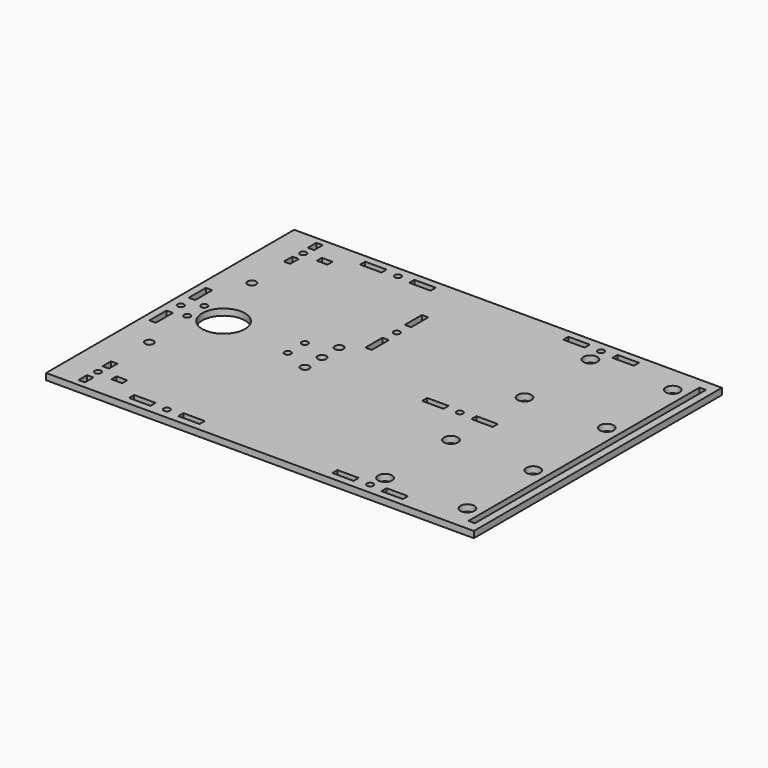
from build123d import *

# Parameters (mm, degrees)
F0_W     = 200
F0_H     = 145
F0_W_2   = 3
F0_H_2   = 5
F0_R     = 1.5
F0_W_3   = 5
F0_H_3   = 3
F0_W_4   = 10
F0_R_2   = 2
F0_H_4   = 10
F0_R_3   = 3.25
F0_R_4   = 10
F0_H_5   = 135
F1_DEPTH = 3


with BuildPart() as f1:
    # F0 (on Top) → F1 (new body)
    with BuildSketch(Plane.XY):
        with Locations((6.405575, -4.149114)):
            Rectangle(F0_W, F0_H)
        with Locations((-79.344425, -71.149114)):
            Rectangle(F0_W_2, F0_H_2, mode=Mode.SUBTRACT)
        with Locations((-79.344425, -64.149114)):
            Circle(F0_R, mode=Mode.SUBTRACT)
        with Locations((-69.344425, -64.149114)):
            Rectangle(F0_W_3, F0_H_3, mode=Mode.SUBTRACT)
        with Locations((-52.594425, -71.649114)):
            Rectangle(F0_W_4, F0_H_3, mode=Mode.SUBTRACT)
        with Locations((-79.344425, -57.149114)):
            Rectangle(F0_W_2, F0_H_2, mode=Mode.SUBTRACT)
        with Locations((-41.094425, -71.649114)):
            Circle(F0_R, mode=Mode.SUBTRACT)
        with Locations((-29.594425, -71.649114)):
            Rectangle(F0_W_4, F0_H_3, mode=Mode.SUBTRACT)
        with Locations((-79.344425, -34.149114)):
            Circle(F0_R_2, mode=Mode.SUBTRACT)
        with Locations((-88.596009, -15.649114)):
            Rectangle(F0_W_2, F0_H_4, mode=Mode.SUBTRACT)
        with Locations((-81.594425, -9.149114)):
            Circle(F0_R, mode=Mode.SUBTRACT)
        with Locations((-22.594425, -14.149114)):
            Circle(F0_R_2, mode=Mode.SUBTRACT)
        with Locations((-34.594425, -9.149114)):
            Circle(F0_R, mode=Mode.SUBTRACT)
        with Locations((42.405575, -71.649114)):
            Rectangle(F0_W_4, F0_H_3, mode=Mode.SUBTRACT)
        with Locations((53.905575, -71.649114)):
            Circle(F0_R, mode=Mode.SUBTRACT)
        with Locations((54.905575, -64.149114)):
            Circle(F0_R_3, mode=Mode.SUBTRACT)
        with Locations((65.405575, -71.649114)):
            Rectangle(F0_W_4, F0_H_3, mode=Mode.SUBTRACT)
        with Locations((93.405575, -64.149114)):
            Circle(F0_R_3, mode=Mode.SUBTRACT)
        with Locations((54.905575, -25.649114)):
            Circle(F0_R_3, mode=Mode.SUBTRACT)
        with Locations((32.405575, -6.649114)):
            Rectangle(F0_W_4, F0_H_3, mode=Mode.SUBTRACT)
        with Locations((43.905575, -6.649114)):
            Circle(F0_R, mode=Mode.SUBTRACT)
        with Locations((55.405575, -6.649114)):
            Rectangle(F0_W_4, F0_H_3, mode=Mode.SUBTRACT)
        with Locations((93.405575, -25.649114)):
            Circle(F0_R_3, mode=Mode.SUBTRACT)
        with Locations((-88.594425, -4.149114)):
            Circle(F0_R, mode=Mode.SUBTRACT)
        with Locations((-81.594425, 0.850886)):
            Circle(F0_R, mode=Mode.SUBTRACT)
        with Locations((-68.594425, -4.149114)):
            Circle(F0_R_4, mode=Mode.SUBTRACT)
        with Locations((-88.596009, 7.350886)):
            Rectangle(F0_W_2, F0_H_4, mode=Mode.SUBTRACT)
        with Locations((-79.344425, 25.850886)):
            Circle(F0_R_2, mode=Mode.SUBTRACT)
        with Locations((-34.594425, 0.850886)):
            Circle(F0_R, mode=Mode.SUBTRACT)
        with Locations((-22.594425, -4.149114)):
            Circle(F0_R_2, mode=Mode.SUBTRACT)
        with Locations((-22.594425, 5.850886)):
            Circle(F0_R_2, mode=Mode.SUBTRACT)
        with Locations((-13.596009, 16.850886)):
            Rectangle(F0_W_2, F0_H_4, mode=Mode.SUBTRACT)
        with Locations((-13.594425, 28.350886)):
            Circle(F0_R, mode=Mode.SUBTRACT)
        with Locations((-79.344425, 48.850886)):
            Rectangle(F0_W_2, F0_H_2, mode=Mode.SUBTRACT)
        with Locations((-79.344425, 55.850886)):
            Circle(F0_R, mode=Mode.SUBTRACT)
        with Locations((-69.344425, 55.850886)):
            Rectangle(F0_W_3, F0_H_3, mode=Mode.SUBTRACT)
        with Locations((-79.344425, 62.850886)):
            Rectangle(F0_W_2, F0_H_2, mode=Mode.SUBTRACT)
        with Locations((-52.594425, 63.350886)):
            Rectangle(F0_W_4, F0_H_3, mode=Mode.SUBTRACT)
        with Locations((-13.596009, 39.850886)):
            Rectangle(F0_W_2, F0_H_4, mode=Mode.SUBTRACT)
        with Locations((-41.094425, 63.350886)):
            Circle(F0_R, mode=Mode.SUBTRACT)
        with Locations((-29.594425, 63.350886)):
            Rectangle(F0_W_4, F0_H_3, mode=Mode.SUBTRACT)
        with Locations((54.905575, 17.350886)):
            Circle(F0_R_3, mode=Mode.SUBTRACT)
        with Locations((101.405575, -4.149114)):
            Rectangle(F0_W_2, F0_H_5, mode=Mode.SUBTRACT)
        with Locations((93.405575, 17.350886)):
            Circle(F0_R_3, mode=Mode.SUBTRACT)
        with Locations((54.905575, 55.850886)):
            Circle(F0_R_3, mode=Mode.SUBTRACT)
        with Locations((42.405575, 63.350886)):
            Rectangle(F0_W_4, F0_H_3, mode=Mode.SUBTRACT)
        with Locations((53.905575, 63.350886)):
            Circle(F0_R, mode=Mode.SUBTRACT)
        with Locations((65.405575, 63.350886)):
            Rectangle(F0_W_4, F0_H_3, mode=Mode.SUBTRACT)
        with Locations((93.405575, 55.850886)):
            Circle(F0_R_3, mode=Mode.SUBTRACT)
    extrude(amount=F1_DEPTH)


solid = f1.part
